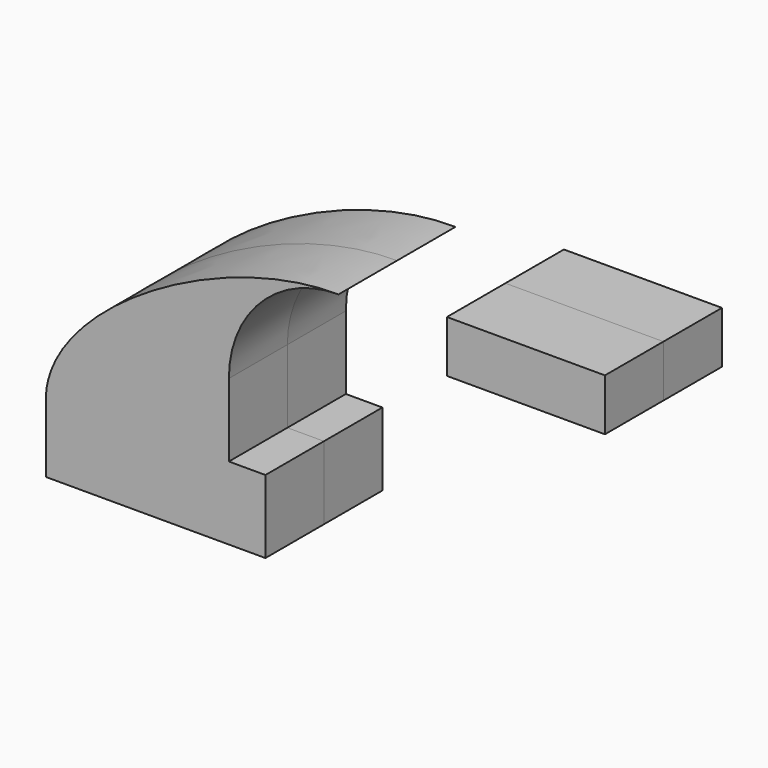
from build123d import *

# Parameters (mm, degrees)
F0_W      = 54.894862
F0_H      = 18.023853
F1_DEPTH  = 25.4
F1_FACE_W = 54.894862
F1_FACE_H = 18.023852
F2_DEPTH  = 25.4


with BuildPart() as f1:
    # F0 (on Front) → F1 (new body)
    with BuildSketch(Plane.XZ):
        with BuildLine():
            add(Edge.make_bspline(
                [(63.5, 76.2), (21.315021, 76.604232), (-36.269628, 41.819595), (-38.1, 12.7)],
                knots=[0, 0, 0, 0, 119.81156, 119.81156, 119.81156, 119.81156], degree=3))
            Line((-38.1, 12.7), (25.4, 12.7))
            Line((25.4, 12.7), (25.4, 38.1))
            ThreePointArc((25.4, 38.1), (36.559232, 65.040768), (63.5, 76.2))
        make_face()
        Polygon((-38.1, 12.7), (-38.1, -12.7), (38.1, -12.7), (38.1, 12.7), (25.4, 12.7), align=None)
        with Locations((128.592014, 72.511927)):
            Rectangle(F0_W, F0_H)
    extrude(amount=F1_DEPTH)


with BuildPart() as f2:
    # F1_face (on face) → F2 (new body)
    with BuildSketch(Plane(origin=(128.592014, -25.4, 72.511926), x_dir=(1, 0, 0), z_dir=(0, -1, 0))):
        Rectangle(F1_FACE_W, F1_FACE_H)
        with BuildLine():
            ThreePointArc((-103.192014, -34.411926), (-92.032783, -7.471158), (-65.092014, 3.688074))
            add(Edge.make_bspline(
                [(-65.092014, 3.688074), (-107.276993, 4.092306), (-164.861642, -30.692331), (-166.692014, -59.811926)],
                knots=[0, 0, 0, 0, 119.81156, 119.81156, 119.81156, 119.81156], degree=3))
            Line((-166.692014, -59.811926), (-166.692014, -85.211926))
            Line((-166.692014, -85.211926), (-90.492014, -85.211926))
            Line((-90.492014, -85.211926), (-90.492014, -59.811926))
            Line((-90.492014, -59.811926), (-103.192014, -59.811926))
            Line((-103.192014, -59.811926), (-103.192014, -34.411926))
        make_face()
    extrude(amount=F2_DEPTH)


solid = Compound([f1.part, f2.part])
